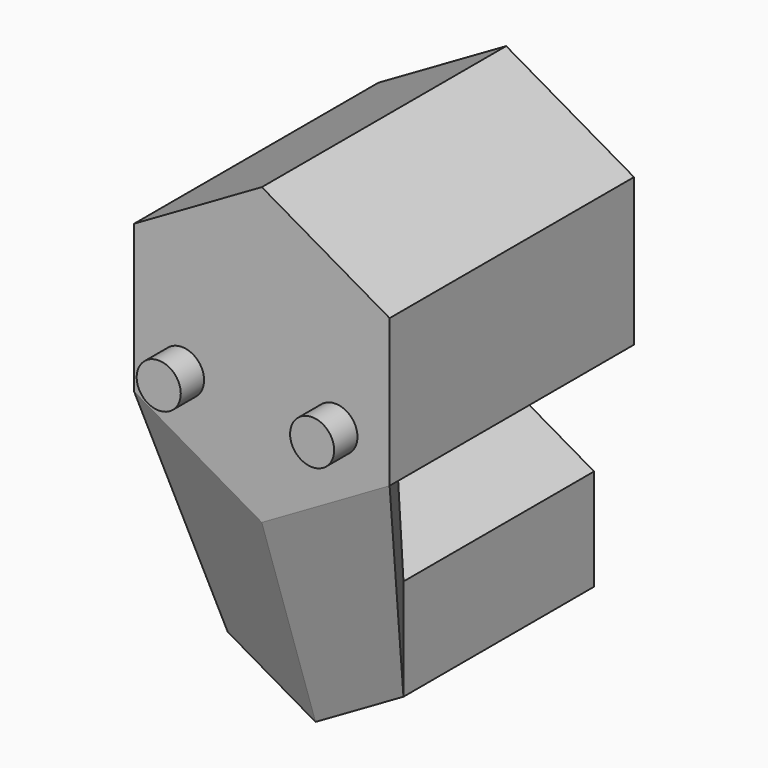
from build123d import *

# Parameters (mm, degrees)
F1_DEPTH = 25.4
F3_DEPTH = 7.16379
F5_R     = 2.3500248861
F6_DEPTH = 3.10498
F5_R_2   = 2.3495


with BuildPart() as f1:
    # F0 (on Front) → F1 (new body)
    with BuildSketch(Plane.XZ):
        Polygon((-13.623206395, 18.6848178587), (0, 10.8194559793), (13.623206395, 18.6848178587), (13.623206395, 34.4155416175), (0, 42.2809034969), (-13.623206395, 34.4155416175), align=None)
    extrude(amount=F1_DEPTH)



with BuildPart() as f1b:
    # F0 (on Front) → F1, piece 2 (new body)
    with BuildSketch(Plane.XZ):
        Polygon((9.3699237332, -5.4097279896), (9.3699237332, 5.4097279896), (0, 10.8194559793), (-9.3699237332, 5.4097279896), (-9.3699237332, -5.4097279896), (0, -10.8194559793), align=None)
    extrude(amount=F1_DEPTH)


with BuildPart() as f1_1:
    add(f1.part)

    add(f1b.part)  # F3 merges F1b
    # F2 (on face) → F3 (join)
    with BuildSketch(Plane.XZ.offset(25.4)):
        Polygon((-13.623206395, 34.4155416175), (-13.623206395, 18.6848178587), (0, 10.8194559793), (13.623206395, 18.6848178587), (13.623206395, 34.4155416175), (0, 42.2809034969), align=None)
    extrude(amount=F3_DEPTH)


with BuildPart() as f4:
    # F1_face (on face) → F4 section 0
    with BuildSketch(Plane(origin=(0, -25.4, 26.5501797381), x_dir=(1, 0, 0), z_dir=(0, -1, 0))):
        Polygon((0, -37.3696357173), (9.3699237332, -31.9599077277), (9.3699237332, -21.1404517484), (0, -15.7307237588), (-9.3699237332, -21.1404517484), (-9.3699237332, -31.9599077277), align=None)
    # F3_face (on face) → F4 section 1
    with BuildSketch(Plane(origin=(0, -32.56379, 26.5501797381), x_dir=(1, 0, 0), z_dir=(0, -1, 0))):
        Polygon((-13.623206395, 7.8653618794), (-13.623206395, -7.8653618794), (0, -15.7307237588), (13.623206395, -7.8653618794), (13.623206395, 7.8653618794), (0, 15.7307237588), align=None)
    loft()


with BuildPart() as f6:
    # F5 (on face) → F6 (new body)
    with BuildSketch(Plane.XZ.offset(32.56379)):
        with Locations((-8.5054952651, 22.1650754418)):
            Circle(F5_R)
    extrude(amount=F6_DEPTH)


with BuildPart() as f6b:
    # F5 (on face) → F6, piece 2 (new body)
    with BuildSketch(Plane.XZ.offset(32.56379)):
        with Locations((7.8468539937, 22.1650754418)):
            Circle(F5_R_2)
    extrude(amount=F6_DEPTH)


solid = Compound([f1_1.part, f4.part, f6.part, f6b.part])
